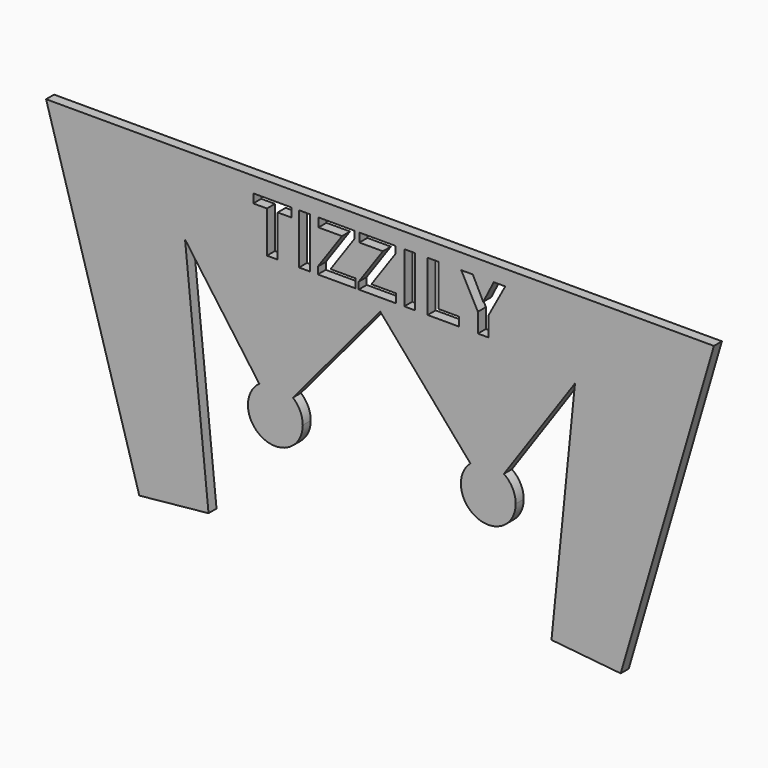
from build123d import *

# Parameters (mm, degrees)
F0_W     = 4.7515250481
F0_H     = 22.4042496848
F1_DEPTH = 4.445


with BuildPart() as f1:
    # F0 (on Front) → F1 (new body)
    with BuildSketch(Plane.XZ):
        with BuildLine():
            Line((-107.0503221856, -3.0948602284), (-76.2880815111, 0))
            Line((-76.2880815111, 0), (-86.7243445437, 103.7341952324))
            Line((-86.7243445437, 103.7341952324), (-53.7250275092, 57.9696269721))
            ThreePointArc((-53.7250275092, 57.9696269721), (-46.1566377564, 60.2633619864), (-38.773926276, 57.4283461196))
            Line((-38.773926276, 57.4283461196), (0, 103.7341952324))
            Line((0, 103.7341952324), (40.0807997492, 57.3092244379))
            ThreePointArc((40.0807997492, 57.3092244379), (47.3933296143, 60.2539299742), (54.9783525161, 58.1064171563))
            Line((54.9783525161, 58.1064171563), (86.548257701, 103.7341875683))
            Line((86.548257701, 103.7341875683), (76.1119184889, 0))
            Line((76.1119184889, 0), (106.8741568907, -3.0948828193))
            Line((106.8741568907, -3.0948828193), (148.2956194489, 138.5004273575))
            Line((148.2956194489, 138.5004273575), (-148.4725865748, 138.5004273575))
            Line((-148.4725865748, 138.5004273575), (-107.0503221856, -3.0948602284))
        make_face()
        Polygon((-45.5729805496, 127.6698307823), (-45.5729805496, 109.2178300023), (-50.3245055976, 109.2178300023), (-50.3245055976, 127.6698307823), (-56.4097920627, 127.6698307823), (-56.4097920627, 131.6220796871), (-39.4925976191, 131.6220796871), (-39.4925976191, 127.6698307823), align=None, mode=Mode.SUBTRACT)
        with Locations((-33.6696502563, 120.4199548447)):
            Rectangle(F0_W, F0_H, mode=Mode.SUBTRACT)
        Polygon((-11.0520968155, 113.1406576994), (-11.0520968155, 109.2178300023), (-27.724114528, 109.2178300023), (-27.724114528, 112.2972497445), (-16.9804701727, 127.69925199), (-27.4299024507, 127.69925199), (-27.4299024507, 131.6220796871), (-11.3414053582, 131.6220796871), (-11.3414053582, 128.5573705488), (-22.0703391096, 113.1406576994), align=None, mode=Mode.SUBTRACT)
        Polygon((7.120402491, 113.1406576994), (7.120402491, 109.2178300023), (-9.5516152214, 109.2178300023), (-9.5516152214, 112.2972497445), (1.1920291339, 127.69925199), (-9.2574031441, 127.69925199), (-9.2574031441, 131.6220796871), (6.8310939484, 131.6220796871), (6.8310939484, 128.5573705488), (-3.8978398031, 113.1406576994), align=None, mode=Mode.SUBTRACT)
        with Locations((13.0659382194, 120.4199548447)):
            Rectangle(F0_W, F0_H, mode=Mode.SUBTRACT)
        Polygon((34.9185402592, 109.2178300023), (21.0807655579, 109.2178300023), (21.0807655579, 131.6220796871), (25.832290606, 131.6220796871), (25.832290606, 113.1406576994), (34.9185402592, 113.1406576994), align=None, mode=Mode.SUBTRACT)
        Polygon((41.1411256937, 131.6220796871), (45.7847729801, 122.3985310644), (50.4578414742, 131.6220796871), (55.5771316188, 131.6220796871), (48.1433731329, 117.936314559), (48.1433731329, 109.2178300023), (43.4261728272, 109.2178300023), (43.4261728272, 117.7843049857), (35.9924143413, 131.6220796871), align=None, mode=Mode.SUBTRACT)
        with BuildLine():
            Line((-46.5975366533, 48.0849817395), (-53.7250275092, 57.9696269721))
            ThreePointArc((-53.7250275092, 57.9696269721), (-52.1495262693, 37.2368137569), (-34.411177998, 48.0849817395))
            Line((-34.411177998, 48.0849817395), (-46.5975366533, 48.0849817395))
        make_face()
        with BuildLine():
            ThreePointArc((-38.773926276, 57.4283461196), (-46.1566377564, 60.2633619864), (-53.7250275092, 57.9696269721))
            Line((-53.7250275092, 57.9696269721), (-46.5975366533, 48.0849817395))
            Line((-46.5975366533, 48.0849817395), (-38.773926276, 57.4283461196))
        make_face()
        with BuildLine():
            Line((-38.773926276, 57.4283461196), (-46.5975366533, 48.0849817395))
            Line((-46.5975366533, 48.0849817395), (-34.411177998, 48.0849817395))
            ThreePointArc((-34.411177998, 48.0849817395), (-35.555601603, 53.240852919), (-38.773926276, 57.4283461196))
        make_face()
        with BuildLine():
            ThreePointArc((60.230868841, 48.0849817395), (58.838157085, 53.7422358339), (54.9783525161, 58.1064171563))
            Line((54.9783525161, 58.1064171563), (48.0445101857, 48.0849817395))
            Line((48.0445101857, 48.0849817395), (35.8581515305, 48.0849817395))
            ThreePointArc((35.8581515305, 48.0849817395), (48.0445101857, 35.8986230843), (60.230868841, 48.0849817395))
        make_face()
        with BuildLine():
            Line((48.0445101857, 48.0849817395), (54.9783525161, 58.1064171563))
            ThreePointArc((54.9783525161, 58.1064171563), (47.3933296143, 60.2539299742), (40.0807997492, 57.3092244379))
            Line((40.0807997492, 57.3092244379), (48.0445101857, 48.0849817395))
        make_face()
        with BuildLine():
            Line((48.0445101857, 48.0849817395), (40.0807997492, 57.3092244379))
            ThreePointArc((40.0807997492, 57.3092244379), (36.9639874345, 53.1573926884), (35.8581515305, 48.0849817395))
            Line((35.8581515305, 48.0849817395), (48.0445101857, 48.0849817395))
        make_face()
    extrude(amount=F1_DEPTH)


solid = f1.part
